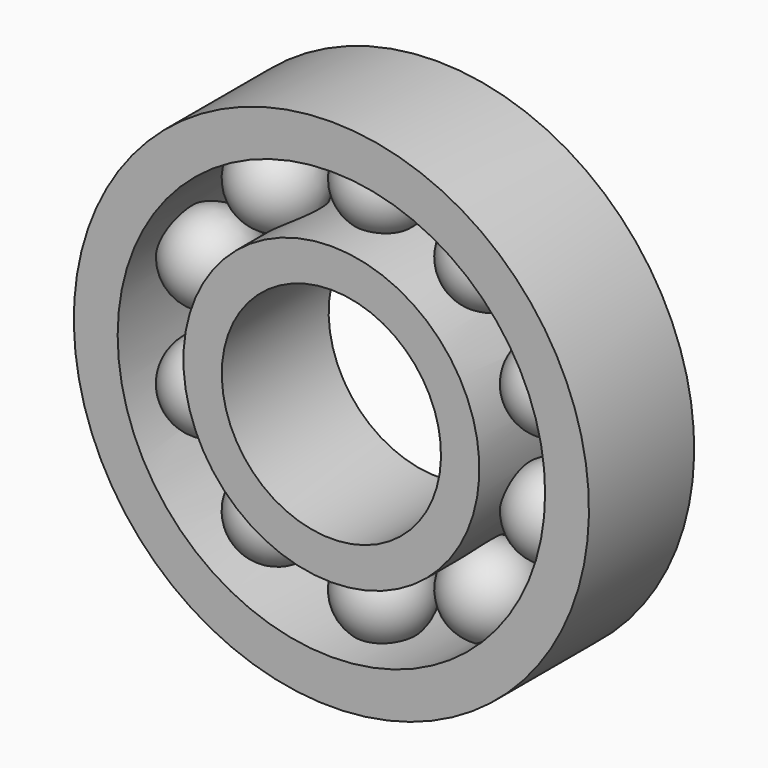
from build123d import *

# Parameters (mm, degrees)
F0_W     = 12
F0_H     = 4
F0_W_2   = 12.1866109669
F0_H_2   = 3.5
F5_COUNT = 10


with BuildPart() as f1:
    # F0 (on Right) → F1 (revolve)
    with BuildSketch(Plane.YZ):
        with Locations((6, 21.5)):
            Rectangle(F0_W, F0_H)
    revolve(axis=Axis((0, 49.125444144, 0), (0, 1, 0)))



with BuildPart() as f1b:
    # F0 (on Right) → F1, piece 2 (revolve)
    with BuildSketch(Plane.YZ):
        with Locations((6.0933054835, 11.75)):
            Rectangle(F0_W_2, F0_H_2)
    revolve(axis=Axis((0, 49.125444144, 0), (0, 1, 0)))


with BuildPart() as f1_1:
    add(f1.part)

    add(f1b.part)  # F4 merges F1b
    # F3 (on offset) → F4 (revolve)
    with BuildSketch(Plane.XZ.offset(-6)):
        with BuildLine():
            Line((0, 20.5), (0, 12.5))
            ThreePointArc((0, 12.5), (4, 16.5), (0, 20.5))
        make_face()
    revolve(axis=Axis((0, 6, 16.5), (0, 0, -1)))

    # F5: F1 ×10 about axis
    f5_axis = Axis((0, 0, 0), (0, 1, 0))


with BuildPart() as f1_2:
    add(f1_1.part)
    for i in range(1, F5_COUNT):
        add(f1_1.part.rotate(f5_axis, i * 360 / F5_COUNT))


solid = f1_2.part
